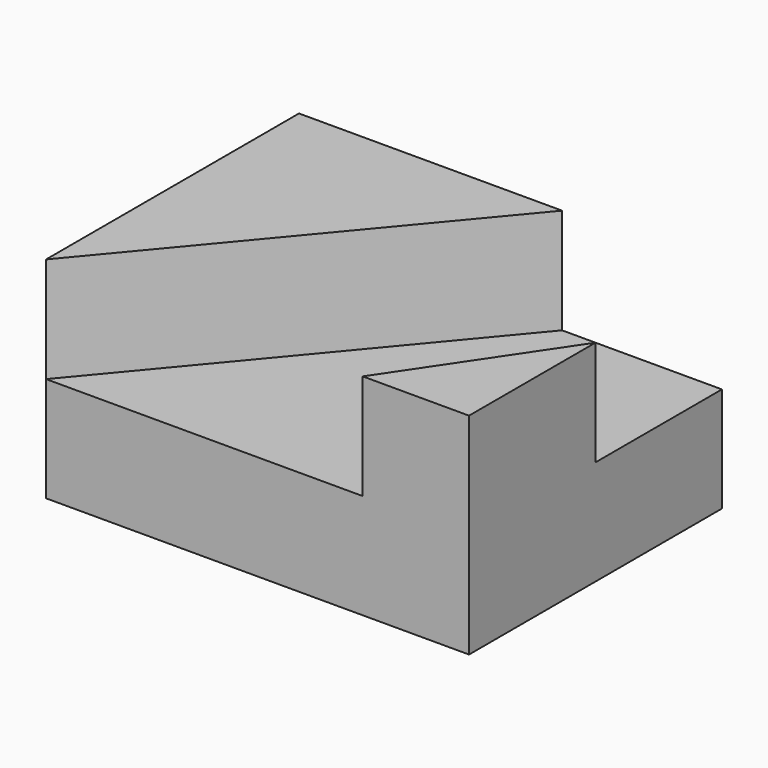
from build123d import *

# Parameters (mm, degrees)
F0_W     = 50.974112
F0_H     = 25.34879
F1_DEPTH = 38.1
F3_DEPTH = 12.7


with BuildPart() as f1:
    # F0 (on Front) → F1 (new body)
    with BuildSketch(Plane.XZ):
        with Locations((-25.487056, 12.674395)):
            Rectangle(F0_W, F0_H)
    extrude(amount=-F1_DEPTH)

    # F2 (on face) → F3 (cut)
    with BuildSketch(Plane.XY.offset(25.34879)):
        Polygon((-50.974112, 0), (-12.812661, 0), (0, 19.05), (0, 38.1), (-19.265082, 38.1), align=None)
    extrude(amount=-F3_DEPTH, mode=Mode.SUBTRACT)


solid = f1.part
